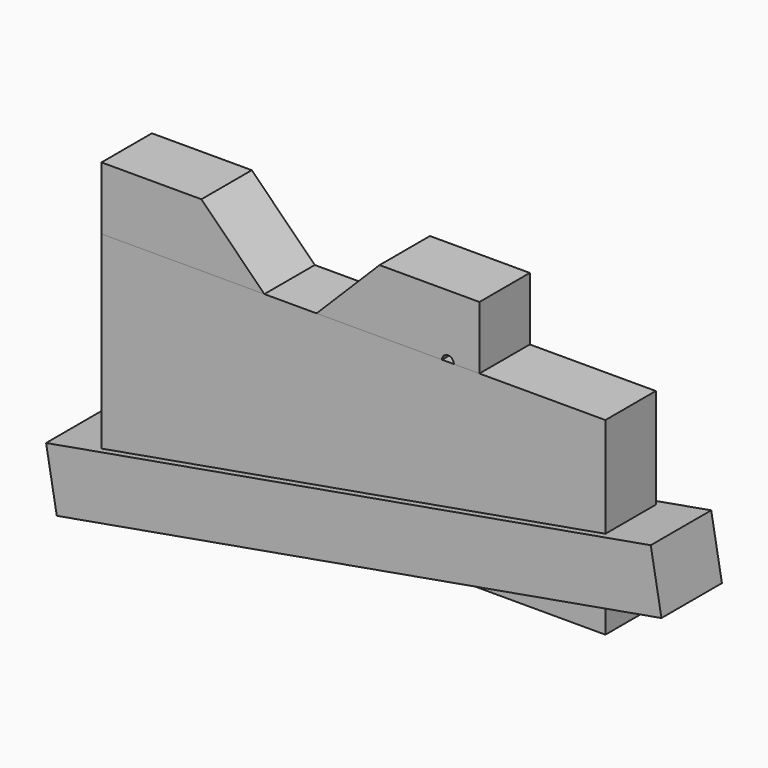
from build123d import *

# Parameters (mm, degrees)
CYLINDER_R          = 4.7625
CYLINDER_DEPTH      = 60.96
CYLINDER_ROLL_ANGLE = -90
BOX001_W            = 111.76
BOX001_H            = 60.96
BOX001_DEPTH        = 111.76
BOX001_PITCH_ANGLE  = -45
BOX_W               = 304.8
BOX_H               = 50.8
BOX_DEPTH           = 203.2
BOX002_W            = 406.4
BOX002_H            = 50.8
BOX002_DEPTH        = 152.4
BOX003_W            = 495.20325
BOX003_H            = 60.96
BOX003_DEPTH        = 49.671111
BOX003_PITCH_ANGLE  = 10


with BuildPart() as hole:
    # Cylinder → Cylinder (new body)
    with BuildSketch(Plane.XY):
        Circle(CYLINDER_R)
    extrude(amount=CYLINDER_DEPTH)


with BuildPart() as hole_1:
    # Cylinder roll: moved
    add(hole.part.rotate(Axis((0, 0, 0), (1, 0, 0)), CYLINDER_ROLL_ANGLE))


with BuildPart() as hole_2:
    # Cylinder placement: moved
    add(hole_1.part.moved(Location((279.4, -5.08, 152.4))))


with BuildPart() as cutout:
    # Box001 → Box001 (new body)
    with BuildSketch(Plane.XY):
        with Locations((55.88, 30.48)):
            Rectangle(BOX001_W, BOX001_H)
    extrude(amount=BOX001_DEPTH)


with BuildPart() as cutout_1:
    # Box001 pitch: moved
    add(cutout.part.rotate(Axis((0, 0, 0), (0, 1, 0)), BOX001_PITCH_ANGLE))


with BuildPart() as cutout_2:
    # Box001 placement: moved
    add(cutout_1.part.moved(Location((152.4, -5.08, 131.357951))))


with BuildPart() as anchor_block:
    # Box → Box (new body)
    with BuildSketch(Plane.XY):
        with Locations((152.4, 25.4)):
            Rectangle(BOX_W, BOX_H)
    extrude(amount=BOX_DEPTH)

    # Cut: cut Cutout
    add(cutout_2.part, mode=Mode.SUBTRACT)

    # Cut001: cut Hole
    add(hole_2.part, mode=Mode.SUBTRACT)


with BuildPart() as block001:
    # Box002 → Box002 (new body)
    with BuildSketch(Plane.XY):
        with Locations((203.2, 25.4)):
            Rectangle(BOX002_W, BOX002_H)
    extrude(amount=BOX002_DEPTH)


with BuildPart() as wedge:
    # Box003 → Box003 (new body)
    with BuildSketch(Plane.XY):
        with Locations((247.601625, 30.48)):
            Rectangle(BOX003_W, BOX003_H)
    extrude(amount=BOX003_DEPTH)


with BuildPart() as wedge_1:
    # Box003 pitch: moved
    add(wedge.part.rotate(Axis((0, 0, 0), (0, 1, 0)), BOX003_PITCH_ANGLE))


with BuildPart() as wedge_2:
    # Box003 placement: moved
    add(wedge_1.part.moved(Location((-40.64, -5.08, 7.165928))))


with BuildPart() as part_mirroring:
    # Part__Mirroring: instance of Wedge
    add(wedge_2.part.mirror(Plane(origin=(0, 0, 0), x_dir=(0, 1, 0), z_dir=(0, 0, 1))))


solid = Compound([anchor_block.part, block001.part, part_mirroring.part])
